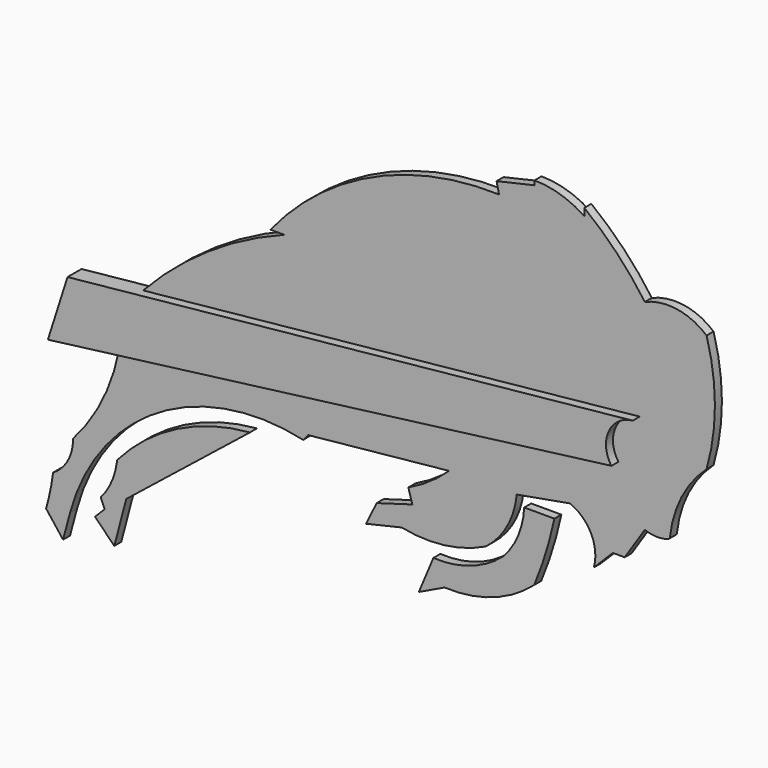
from build123d import *

# Parameters (mm, degrees)
F1_DEPTH  = 50.8
F3_DEPTH  = 25.4
F5_DEPTH  = 50.8
F7_DEPTH  = 50.8
F9_DEPTH  = 25.4
F11_DEPTH = 25.4
F13_DEPTH = 25.4
F15_DEPTH = 25.4


with BuildPart() as f1:
    # F0 (on Front) → F1 (new body)
    with BuildSketch(Plane.XZ):
        with BuildLine():
            Line((668.9107223376, 296.1744000085), (-973.638589538, 129.3428740397))
            Line((-973.638589538, 129.3428740397), (-1030.6983907301, -49.4444440727))
            Line((-1030.6983907301, -49.4444440727), (606.9209202884, 160.326841329))
            ThreePointArc((606.9209202884, 160.326841329), (598.9585537881, 246.0275562701), (668.9107223376, 296.1744000085))
        make_face()
    extrude(amount=F1_DEPTH)

    # F6 (on face) → F7 (cut)
    with BuildSketch(Plane(origin=(0, 0, 0), x_dir=(-1, 0, 0), z_dir=(0, 1, 0))):
        with BuildLine():
            Line((973.638589538, 129.3428740397), (-668.9107223376, 296.1744000085))
            ThreePointArc((-668.9107223376, 296.1744000085), (-598.9585537881, 246.0275562701), (-606.9209202884, 160.326841329))
            Line((-606.9209202884, 160.326841329), (1030.6983907301, -49.4444440727))
            Line((1030.6983907301, -49.4444440727), (973.638589538, 129.3428740397))
        make_face()
    extrude(amount=-F7_DEPTH, mode=Mode.SUBTRACT)


with BuildPart() as f3:
    # F2 (on face) → F3 (new body)
    with BuildSketch(Plane.XZ.offset(50.8)):
        with BuildLine():
            Line((252.8231143951, 763.2114291191), (260.0792597578, 731.4753143195))
            ThreePointArc((260.0792597578, 731.4753143195), (-108.0157204055, 656.2289322909), (-404.3941316745, 425.3268539906))
            Line((-404.3941316745, 425.3268539906), (-364.3333911896, 425.3268539906))
            ThreePointArc((-364.3333911896, 425.3268539906), (-585.0653026288, 310.8876425767), (-774.2806055216, 149.5913965328))
            Line((-774.2806055216, 149.5913965328), (668.9107223376, 296.1744000085))
            ThreePointArc((668.9107223376, 296.1744000085), (598.9585537881, 246.0275562701), (606.9209202884, 160.326841329))
            Line((606.9209202884, 160.326841329), (-844.2928764091, -25.5667796595))
            ThreePointArc((-844.2928764091, -25.5667796595), (-892.8823459917, -169.7880637292), (-978.108048439, -295.8725392818))
            ThreePointArc((-978.108048439, -295.8725392818), (-992.7766309961, -356.4826312083), (-1035.9544754028, -401.4762341976))
            ThreePointArc((-1035.9544754028, -401.4762341976), (-1044.1334912394, -451.1686450263), (-1056.2492609024, -500.0505447388))
            Line((-1056.2492609024, -500.0505447388), (-1006.9620609283, -563.8339519501))
            Line((-1006.9620609283, -563.8339519501), (-986.6673946381, -488.453567028))
            ThreePointArc((-986.6673946381, -488.453567028), (-730.0030998205, -148.32094961), (-309.1685473919, -81.5000161529))
            Line((-309.1685473919, -81.5000161529), (-295.0216254312, -64.5236975716))
            Line((-295.0216254312, -64.5236975716), (114.9110347033, -22.8873882443))
            ThreePointArc((114.9110347033, -22.8873882443), (58.8957433569, -68.0390446038), (-3.5516790672, -103.7700447186))
            Line((-3.5516790672, -103.7700447186), (8.0292224884, -143.5604542494))
            Line((8.0292224884, -143.5604542494), (-95.5446205932, -173.7053684286))
            Line((-95.5446205932, -173.7053684286), (-126.4350712299, -236.6511076689))
            Line((-126.4350712299, -236.6511076689), (-23.0009946972, -212.5164866447))
            ThreePointArc((-23.0009946972, -212.5164866447), (101.9915115452, -217.4774359696), (221.7929065228, -181.4862787724))
            ThreePointArc((221.7929065228, -181.4862787724), (283.4661379535, -109.7852043171), (311.4357590675, -19.439579919))
            Line((311.4357590675, -19.439579919), (464.7360989186, 7.8138095175))
            ThreePointArc((464.7360989186, 7.8138095175), (466.5824829372, 7.869165753), (468.3666758386, 7.3907789354))
            ThreePointArc((468.3666758386, 7.3907789354), (528.3038755098, -50.3246919943), (535.54284547, -133.2170366528))
            Line((535.54284547, -133.2170366528), (590.7077191624, -78.0522076639))
            Line((590.7077191624, -78.0522076639), (625.1857280731, -78.0522076639))
            Line((625.1857280731, -78.0522076639), (683.7983130659, 11.5906373156))
            ThreePointArc((683.7983130659, 11.5906373156), (717.5338391437, 4.5880666159), (751.5826313881, 9.8607758671))
            ThreePointArc((751.5826313881, 9.8607758671), (755.0537907212, 12.3153575814), (756.6696154819, 16.2476633745))
            ThreePointArc((756.6696154819, 16.2476633745), (790.6520509526, 130.3644655572), (863.0842160836, 224.868602585))
            ThreePointArc((863.0842160836, 224.868602585), (887.3943414393, 395.7776857329), (863.0842160836, 566.6867688808))
            ThreePointArc((863.0842160836, 566.6867688808), (777.3887385904, 606.1366766902), (683.7982803898, 594.269232872))
            ThreePointArc((683.7982803898, 594.269232872), (602.682958571, 692.5508134266), (507.9604538295, 777.7952361509))
            Line((507.9604538295, 777.7952361509), (507.9604538295, 756.315767765))
            ThreePointArc((507.9604538295, 756.315767765), (438.8854619383, 789.4811282868), (363.1528318299, 801.1372159736))
            Line((363.1528318299, 801.1372159736), (363.1528318299, 788.4372159736))
            Line((363.1528318299, 788.4372159736), (252.8231143951, 763.2114291191))
        make_face()
    extrude(amount=F3_DEPTH)

    # F14 (on face) → F15 (cut)
    with BuildSketch(Plane(origin=(0, -25.4, 0), x_dir=(-1, 0, 0), z_dir=(0, 1, 0))):
        with BuildLine():
            Line((-26.9238203764, -361.3369762897), (-69.2455992103, -260.4158222675))
            ThreePointArc((-69.2455992103, -260.4158222675), (-177.6634852356, -245.3019366193), (-272.3434729128, -190.3604451668))
            ThreePointArc((-272.3434729128, -190.3604451668), (-315.5776524746, -123.34784734), (-333.116315579, -45.5514602363))
            Line((-333.116315579, -45.5514602363), (-420.8418428898, -45.5514602363))
            ThreePointArc((-420.8418428898, -45.5514602363), (-395.9229268117, -141.3211070327), (-362.2424900532, -234.3716621399))
            ThreePointArc((-362.2424900532, -234.3716621399), (-240.9186624153, -305.3690049671), (-101.8007993698, -325.5262374878))
            Line((-101.8007993698, -325.5262374878), (-26.9238203764, -361.3369762897))
        make_face()
    extrude(amount=-F15_DEPTH, mode=Mode.SUBTRACT)


with BuildPart() as f5:
    # F4 (on face) → F5 (new body)
    with BuildSketch(Plane.XZ.offset(50.8)):
        with BuildLine():
            Line((668.9107223376, 296.1744000085), (-973.638589538, 129.3428740397))
            Line((-973.638589538, 129.3428740397), (-1030.6983907301, -49.4444440727))
            Line((-1030.6983907301, -49.4444440727), (606.9209202884, 160.326841329))
            ThreePointArc((606.9209202884, 160.326841329), (598.9585537881, 246.0275562701), (668.9107223376, 296.1744000085))
        make_face()
    extrude(amount=F5_DEPTH)


with BuildPart() as f9:
    # F8 (on face) → F9 (new body)
    with BuildSketch(Plane(origin=(0, -50.8, 0), x_dir=(-1, 0, 0), z_dir=(0, 1, 0))):
        with BuildLine():
            ThreePointArc((850.4342842837, -314.1488422037), (850.3100605438, -310.7345540712), (848.7064378979, -307.717736311))
            ThreePointArc((848.7064378979, -307.717736311), (675.3453518171, -172.4701702764), (463.7495577336, -112.694002688))
            Line((463.7495577336, -112.694002688), (823.3108520508, -399.7856080532))
            Line((823.3108520508, -399.7856080532), (857.9654097557, -531.1673879623))
            Line((857.9654097557, -531.1673879623), (914.314866066, -474.8179316521))
            Line((914.314866066, -474.8179316521), (886.1401379108, -446.6432034969))
            Line((886.1401379108, -446.6432034969), (897.6440429687, -419.9363589287))
            ThreePointArc((897.6440429687, -419.9363589287), (866.2563072958, -370.5158531825), (850.4342842837, -314.1488422037))
        make_face()
    extrude(amount=F9_DEPTH)


with BuildPart() as f9b:
    # F8 (on face) → F9, piece 2 (new body)
    with BuildSketch(Plane(origin=(0, -50.8, 0), x_dir=(-1, 0, 0), z_dir=(0, 1, 0))):
        with BuildLine():
            ThreePointArc((-272.3434729128, -190.3604451668), (-315.5776524746, -123.34784734), (-333.116315579, -45.5514602363))
            Line((-333.116315579, -45.5514602363), (-420.8418428898, -45.5514602363))
            ThreePointArc((-420.8418428898, -45.5514602363), (-395.9229268117, -141.3211070327), (-362.2424900532, -234.3716621399))
            ThreePointArc((-362.2424900532, -234.3716621399), (-240.9186624153, -305.3690049671), (-101.8007993698, -325.5262374878))
            Line((-101.8007993698, -325.5262374878), (-26.9238203764, -361.3369762897))
            Line((-26.9238203764, -361.3369762897), (-69.2455992103, -260.4158222675))
            ThreePointArc((-69.2455992103, -260.4158222675), (-177.6634852356, -245.3019366193), (-272.3434729128, -190.3604451668))
        make_face()
    extrude(amount=F9_DEPTH)


with BuildPart() as f11:
    # F10 (on face) → F11 (new body)
    with BuildSketch(Plane.XZ.offset(50.8)):
        with BuildLine():
            Line((-823.3108520508, -399.7856080532), (-463.7495577336, -112.694002688))
            ThreePointArc((-463.7495577336, -112.694002688), (-675.3453518171, -172.4701702764), (-848.7064378979, -307.717736311))
            ThreePointArc((-848.7064378979, -307.717736311), (-850.3100605438, -310.7345540712), (-850.4342842837, -314.1488422037))
            ThreePointArc((-850.4342842837, -314.1488422037), (-866.2563072958, -370.5158531825), (-897.6440429687, -419.9363589287))
            Line((-897.6440429687, -419.9363589287), (-886.1401379108, -446.6432034969))
            Line((-886.1401379108, -446.6432034969), (-914.314866066, -474.8179316521))
            Line((-914.314866066, -474.8179316521), (-857.9654097557, -531.1673879623))
            Line((-857.9654097557, -531.1673879623), (-823.3108520508, -399.7856080532))
        make_face()
    extrude(amount=F11_DEPTH)


with BuildPart() as f11b:
    # F10 (on face) → F11, piece 2 (new body)
    with BuildSketch(Plane.XZ.offset(50.8)):
        with BuildLine():
            ThreePointArc((362.2424900532, -234.3716621399), (395.9229268117, -141.3211070327), (420.8418428898, -45.5514602363))
            Line((420.8418428898, -45.5514602363), (333.116315579, -45.5514602363))
            ThreePointArc((333.116315579, -45.5514602363), (315.5776524746, -123.34784734), (272.3434729128, -190.3604451668))
            ThreePointArc((272.3434729128, -190.3604451668), (177.6634852356, -245.3019366193), (69.2455992103, -260.4158222675))
            Line((69.2455992103, -260.4158222675), (26.9238203764, -361.3369762897))
            Line((26.9238203764, -361.3369762897), (101.8007993698, -325.5262374878))
            ThreePointArc((101.8007993698, -325.5262374878), (240.9186624153, -305.3690049671), (362.2424900532, -234.3716621399))
        make_face()
    extrude(amount=F11_DEPTH)


with BuildPart() as f13_tool:
    # F12 (on face) → F13 (new body)
    with BuildSketch(Plane(origin=(0, -25.4, 0), x_dir=(-1, 0, 0), z_dir=(0, 1, 0))):
        with BuildLine():
            Line((886.1401379108, -446.6432034969), (897.6440429687, -419.9363589287))
            ThreePointArc((897.6440429687, -419.9363589287), (866.2563072958, -370.5158531825), (850.4342842837, -314.1488422037))
            ThreePointArc((850.4342842837, -314.1488422037), (850.3100605438, -310.7345540712), (848.7064378979, -307.717736311))
            ThreePointArc((848.7064378979, -307.717736311), (675.3453518171, -172.4701702764), (463.7495577336, -112.694002688))
            Line((463.7495577336, -112.694002688), (823.3108520508, -399.7856080532))
            Line((823.3108520508, -399.7856080532), (857.9654097557, -531.1673879623))
            Line((857.9654097557, -531.1673879623), (914.314866066, -474.8179316521))
            Line((914.314866066, -474.8179316521), (886.1401379108, -446.6432034969))
        make_face()
        with BuildLine():
            Line((-26.9238203764, -361.3369762897), (-69.2455992103, -260.4158222675))
            ThreePointArc((-69.2455992103, -260.4158222675), (-177.6634852356, -245.3019366193), (-272.3434729128, -190.3604451668))
            ThreePointArc((-272.3434729128, -190.3604451668), (-315.5776524746, -123.34784734), (-333.116315579, -45.5514602363))
            Line((-333.116315579, -45.5514602363), (-420.8418428898, -45.5514602363))
            ThreePointArc((-420.8418428898, -45.5514602363), (-395.9229268117, -141.3211070327), (-362.2424900532, -234.3716621399))
            ThreePointArc((-362.2424900532, -234.3716621399), (-240.9186624153, -305.3690049671), (-101.8007993698, -325.5262374878))
            Line((-101.8007993698, -325.5262374878), (-26.9238203764, -361.3369762897))
        make_face()
    extrude(amount=-F13_DEPTH)


with BuildPart() as f9_1:
    add(f9.part)

    # F13: cut by f13_tool
    add(f13_tool.part, mode=Mode.SUBTRACT)


with BuildPart() as f9b_1:
    add(f9b.part)

    # F13: cut by f13_tool
    add(f13_tool.part, mode=Mode.SUBTRACT)


solid = Compound([f3.part, f5.part, f11.part, f11b.part])
